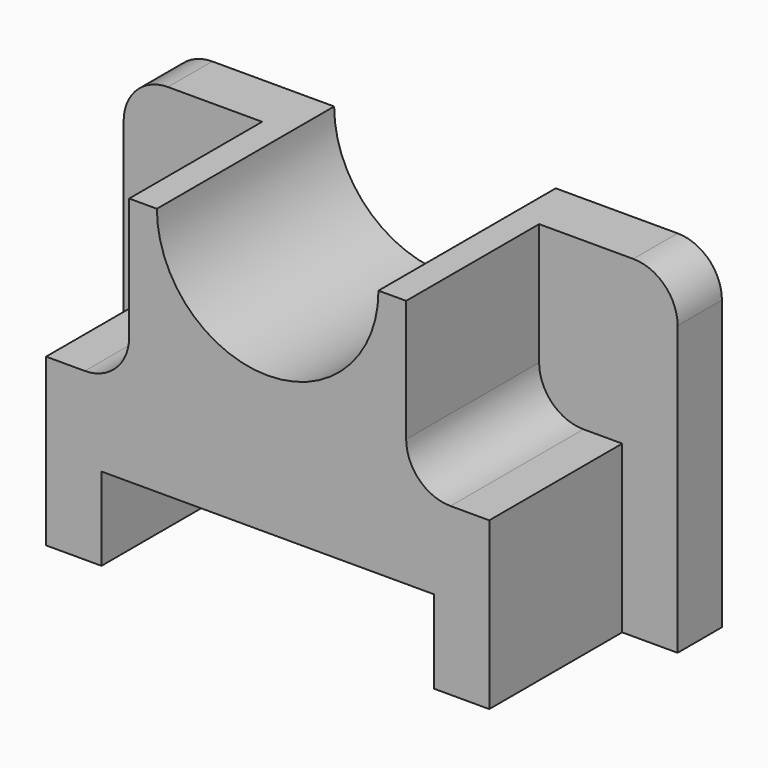
from build123d import *

# Parameters (mm, degrees)
F0_W     = 63.5
F0_H     = 38.1
F1_DEPTH = 25.4
F2_R     = 12.7
F3_DEPTH = 25.4
F5_DEPTH = 19.05
F6_DEPTH = 19.05
F4_W     = 38.1
F4_H     = 9.525
F7_DEPTH = 19.05
F4_W_2   = 9.525
F4_H_2   = 19.05
F8_DEPTH = 19.05
F9_DEPTH = 19.05
F10_R    = 5.08


with BuildPart() as f1:
    # F0 (on Front) → F1 (new body)
    with BuildSketch(Plane.XZ):
        with Locations((7.05844, -3.336163)):
            Rectangle(F0_W, F0_H)
    extrude(amount=F1_DEPTH)

    # F2 (on face) → F3 (cut)
    with BuildSketch(Plane.XZ.offset(25.4)):
        with Locations((7.05844, 15.713837)):
            Circle(F2_R)
    extrude(amount=-F3_DEPTH, mode=Mode.SUBTRACT)

    # F4 (on face) → F5 (cut)
    with BuildSketch(Plane.XZ.offset(25.4)):
        Polygon((32.45844, -3.336163), (32.45844, -22.386163), (38.80844, -22.386163), (38.80844, 15.713837), (32.45844, 15.713837), align=None)
    extrude(amount=-F5_DEPTH, mode=Mode.SUBTRACT)

    # F4 (on face) → F6 (cut)
    with BuildSketch(Plane.XZ.offset(25.4)):
        Polygon((-18.34156, -3.336163), (-18.34156, 15.713837), (-24.69156, 15.713837), (-24.69156, -22.386163), (-18.34156, -22.386163), align=None)
    extrude(amount=-F6_DEPTH, mode=Mode.SUBTRACT)

    # F4 (on face) → F7 (cut)
    with BuildSketch(Plane.XZ.offset(25.4)):
        with Locations((7.05844, -17.623663)):
            Rectangle(F4_W, F4_H)
    extrude(amount=-F7_DEPTH, mode=Mode.SUBTRACT)

    # F4 (on face) → F8 (cut)
    with BuildSketch(Plane.XZ.offset(25.4)):
        with Locations((-13.57906, 6.188837)):
            Rectangle(F4_W_2, F4_H_2)
    extrude(amount=-F8_DEPTH, mode=Mode.SUBTRACT)

    # F4 (on face) → F9 (cut)
    with BuildSketch(Plane.XZ.offset(25.4)):
        with Locations((27.69594, 6.188837)):
            Rectangle(F4_W_2, F4_H_2)
    extrude(amount=-F9_DEPTH, mode=Mode.SUBTRACT)

    # F10
    f10_edges = [f1.edges().sort_by_distance(p)[0] for p in [
        (-24.69156, -3.175, 15.713837),
        (38.80844, -3.175, 15.713837),
        (22.93344, -15.875, -3.336163),
        (-8.81656, -15.875, -3.336163),
    ]]
    fillet(f10_edges, radius=F10_R)


solid = f1.part
